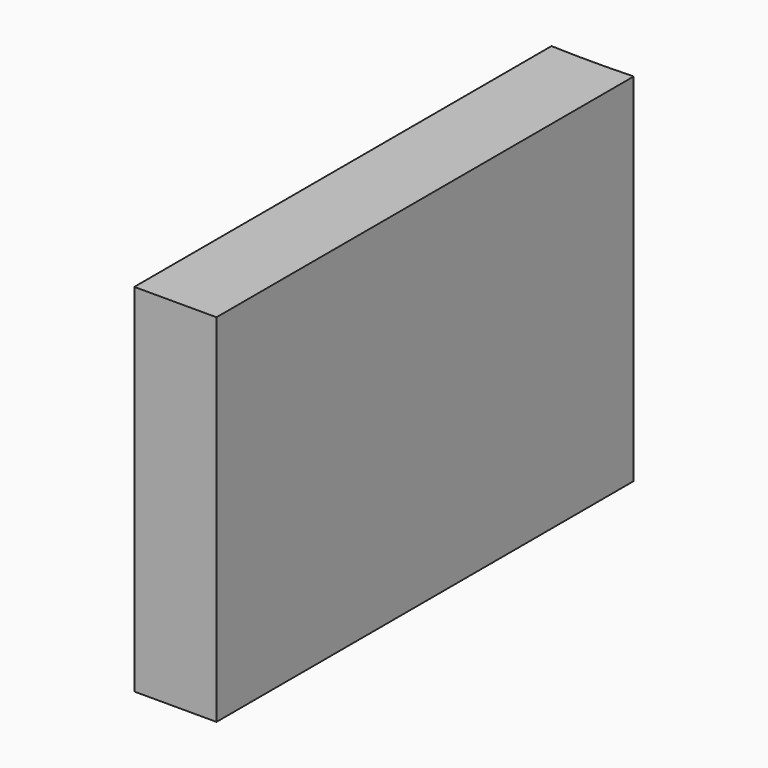
from build123d import *

# Parameters (mm, degrees)
CYLINDER969_R     = 74
CYLINDER969_DEPTH = 40
BOX480_W          = 50
BOX480_H          = 6
BOX480_DEPTH      = 26


with BuildPart() as obj1:
    # Cylinder969 → Cylinder969 (new body)
    with BuildSketch(Plane.XY.offset(42)):
        Circle(CYLINDER969_R)
    extrude(amount=CYLINDER969_DEPTH)


with BuildPart() as cut449:
    # Box480 → Box480 (new body)
    with BuildSketch(Plane(origin=(3, -112, 56), x_dir=(0, 1, 0), z_dir=(0, 0, 1))):
        with Locations((25, 3)):
            Rectangle(BOX480_W, BOX480_H)
    extrude(amount=BOX480_DEPTH)

    # Cut449: cut obj1
    add(obj1.part, mode=Mode.SUBTRACT)


solid = cut449.part
